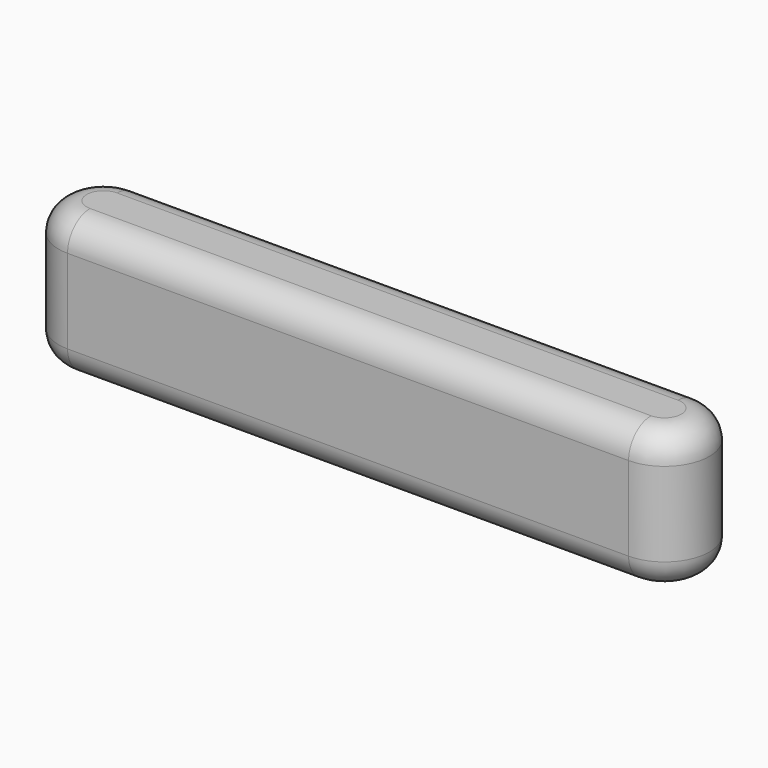
from build123d import *

# Parameters (mm, degrees)
F0_W     = 100
F0_H     = 16
F1_DEPTH = 25
F2_R     = 5


with BuildPart() as f1:
    # F0 (on Top) → F1 (new body)
    with BuildSketch(Plane.XY):
        Rectangle(F0_W, F0_H)
        with BuildLine():
            ThreePointArc((-50, 8), (-58, 0), (-50, -8))
            Line((-50, -8), (-50, 8))
        make_face()
        with BuildLine():
            Line((50, 8), (50, -8))
            ThreePointArc((50, -8), (58, 0), (50, 8))
        make_face()
    extrude(amount=F1_DEPTH)

    # F2
    f2_edges = [f1.edges().sort_by_distance(p)[0] for p in [
        (0, 8, 25),
        (0, -8, 25),
        (-58, 0, 25),
        (58, 0, 25),
        (0, -8, 0),
    ]]
    fillet(f2_edges, radius=F2_R)


solid = f1.part
